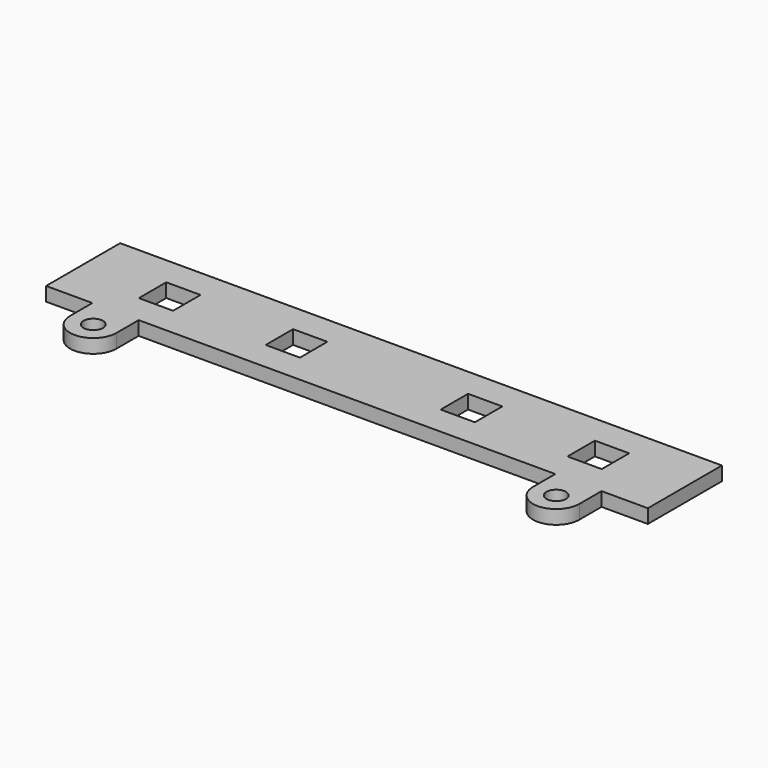
from build123d import *

# Parameters (mm, degrees)
SKETCH_R     = 2.1
PAD_DEPTH    = 3
SKETCH001_W  = 7.4
SKETCH001_H  = 7.4
POCKET_DEPTH = 5


with BuildPart() as pocket:
    # Sketch → Pad (new body)
    with BuildSketch(Plane.XY):
        with BuildLine():
            Line((0, 20), (65, 20))
            Line((65, 20), (65, 0))
            Line((20, 0), (65, 0))
            Line((20, -6), (20, 0))
            ThreePointArc((10, -6), (15, -11), (20, -6))
            Line((10, 0), (10, -6))
            Line((0, 0), (10, 0))
            Line((0, 0), (0, 20))
        make_face()
        with Locations((15, -6)):
            Circle(SKETCH_R, mode=Mode.SUBTRACT)
    extrude(amount=PAD_DEPTH)

    # Sketch001 → Pocket (cut)
    with BuildSketch(Plane(origin=(0, 0, 0), x_dir=(1, 0, 0), z_dir=(0, 0, -1))):
        with Locations((18.7, -10)):
            Rectangle(SKETCH001_W, SKETCH001_H)
        with Locations((46.1, -10)):
            Rectangle(SKETCH001_W, SKETCH001_H)
    extrude(amount=-POCKET_DEPTH, mode=Mode.SUBTRACT)


with BuildPart() as part_mirroring:
    # Part__Mirroring: instance of Pocket
    add(pocket.part.mirror(Plane(origin=(0, 0, 0), x_dir=(0, -1, 0), z_dir=(1, 0, 0))))


with BuildPart() as part_mirroring_1:
    # Part__Mirroring placement: moved
    add(part_mirroring.part.moved(Location((130, 0, 0))))


with BuildPart() as fusion:
    # Fusion base: copy of Pocket
    add(pocket.part)

    # Fusion: union Part__Mirroring
    add(part_mirroring_1.part)


solid = fusion.part
